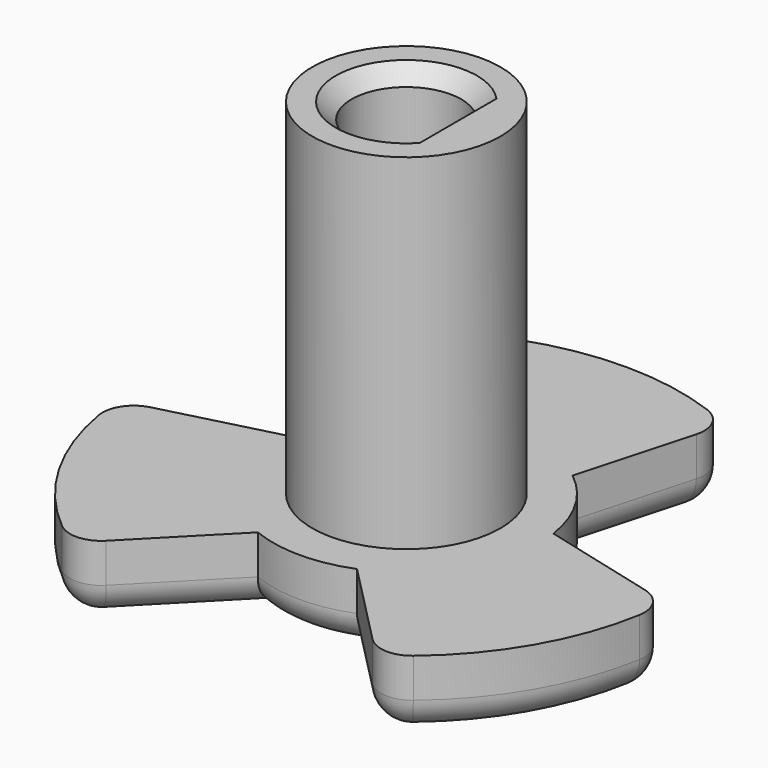
from build123d import *

# Parameters (mm, degrees)
F1_DEPTH = 4.5
F2_R     = 6
F3_DEPTH = 22
F4_R     = 2
F5_SIZE  = 1


with BuildPart() as f1:
    # F0 (on Top) → F1 (new body)
    with BuildSketch(Plane.XY):
        with BuildLine():
            Line((-8.4913125212, -13.3127669957), (-3.1642680885, -7.8890688591))
            ThreePointArc((-3.1642680885, -7.8890688591), (0, -8.5), (3.1642680885, -7.8890688591))
            Line((3.1642680885, -7.8890688591), (8.4913125212, -13.3127669957))
            ThreePointArc((8.4913125212, -13.3127669957), (9.8181818622, -13.9088228343), (11.1979483169, -13.4482695352))
            ThreePointArc((11.1979483169, -13.4482695352), (15.1554445662, -8.75), (17.2455172129, -2.9735729451))
            ThreePointArc((17.2455172129, -2.9735729451), (16.9544848424, -1.5483834945), (15.7748506735, -0.6973088569))
            Line((15.7748506735, -0.6973088569), (8.4142680885, 1.2041978806))
            ThreePointArc((8.4142680885, 1.2041978806), (7.3612159322, 4.25), (5.25, 6.6848709786))
            Line((5.25, 6.6848709786), (7.2835381524, 14.0100758527))
            ThreePointArc((7.2835381524, 14.0100758527), (7.1363029802, 15.4572063288), (6.047568896, 16.4218424803))
            ThreePointArc((6.047568896, 16.4218424803), (0, 17.5), (-6.047568896, 16.4218424803))
            ThreePointArc((-6.047568896, 16.4218424803), (-7.1363029802, 15.4572063288), (-7.2835381524, 14.0100758527))
            Line((-7.2835381524, 14.0100758527), (-5.25, 6.6848709786))
            ThreePointArc((-5.25, 6.6848709786), (-7.3612159322, 4.25), (-8.4142680885, 1.2041978806))
            Line((-8.4142680885, 1.2041978806), (-15.7748506735, -0.6973088569))
            ThreePointArc((-15.7748506735, -0.6973088569), (-16.9544848424, -1.5483834945), (-17.2455172129, -2.9735729451))
            ThreePointArc((-17.2455172129, -2.9735729451), (-15.1554445662, -8.75), (-11.1979483169, -13.4482695352))
            ThreePointArc((-11.1979483169, -13.4482695352), (-9.8181818622, -13.9088228343), (-8.4913125212, -13.3127669957))
        make_face()
    extrude(amount=F1_DEPTH)

    # F2 (on face) → F3 (join)
    with BuildSketch(Plane.XY.offset(4.5)):
        Circle(F2_R)
        with BuildLine():
            ThreePointArc((2.3, -2.6381811917), (-3.5, 0), (2.3, 2.6381811917))
            Line((2.3, 2.6381811917), (2.3, -2.6381811917))
        make_face(mode=Mode.SUBTRACT)
    extrude(amount=F3_DEPTH)

    # F4
    f4_edges = [f1.edges().sort_by_distance(p)[0] for p in [
        (-6.266769, 10.347473, 0),
        (-12.094559, 0.253445, 0),
        (15.155445, -8.75, 0),
        (7.361216, 4.25, 0),
        (0, -8.5, 0),
        (-7.361216, 4.25, 0),
    ]]
    fillet(f4_edges, radius=F4_R)

    # F5
    f5_edges = [f1.edges().sort_by_distance(p)[0] for p in [
        (-3.5, 0, 26.5),
        (2.3, 0, 26.5),
    ]]
    chamfer(f5_edges, length=F5_SIZE)


solid = f1.part
